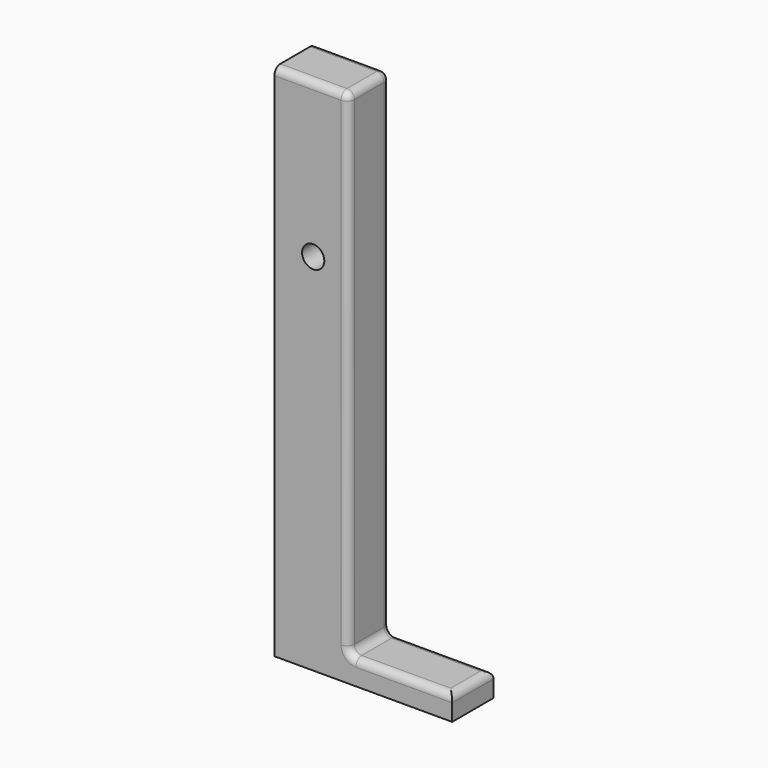
from build123d import *

# Parameters (mm, degrees)
F0_W     = 127
F0_H     = 88.9
F1_DEPTH = 889
F2_W     = 88.9
F2_H     = 41.548505
F3_DEPTH = 177.8
F4_R     = 12.7
F5_R     = 19.05
F6_DEPTH = 127
F7_R     = 12.7


with BuildPart() as f1:
    # F0 (on Top) → F1 (new body)
    with BuildSketch(Plane.XY):
        with Locations((-3.065616, 11.020648)):
            Rectangle(F0_W, F0_H)
    extrude(amount=F1_DEPTH)

    # F2 (on face) → F3 (join)
    with BuildSketch(Plane.YZ.offset(60.434384)):
        with Locations((11.020648, 20.774252)):
            Rectangle(F2_W, F2_H)
    extrude(amount=F3_DEPTH)

    # F4
    f4_edges = [f1.edges().sort_by_distance(p)[0] for p in [
        (-3.065616, 55.470648, 889),
    ]]
    fillet(f4_edges, radius=F4_R)

    # F5 (on face) → F6 (cut)
    with BuildSketch(Plane.XZ.offset(33.429352)):
        with Locations((0, 624.650883)):
            Circle(F5_R)
    extrude(amount=-F6_DEPTH, mode=Mode.SUBTRACT)

    # F7
    f7_edges = [f1.edges().sort_by_distance(p)[0] for p in [
        (-3.065616, -33.429352, 889),
        (60.434384, -33.429352, 465.274253),
        (60.434384, 55.470648, 458.924253),
        (149.334384, 55.470648, 41.548505),
        (149.334384, -33.429352, 41.548505),
        (60.434384, 11.020648, 41.548505),
        (238.234384, 11.020648, 41.548505),
    ]]
    fillet(f7_edges, radius=F7_R)


solid = f1.part
